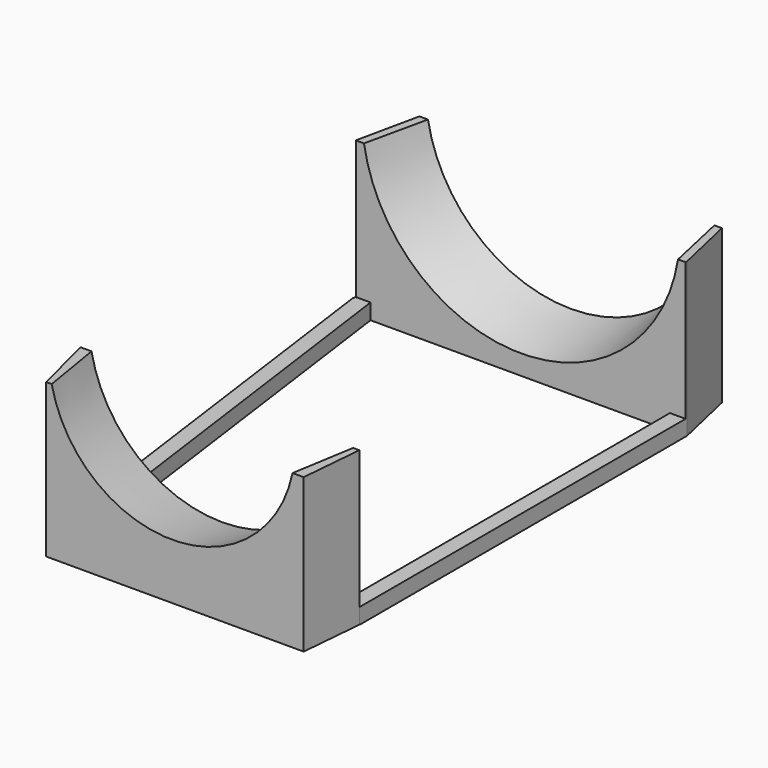
from build123d import *

# Parameters (mm, degrees)
BOX004_W                = 40
BOX004_H                = 20
BOX004_DEPTH            = 49
BOX004_PLACEMENT_ANGLE  = 257.9
BOX003_W                = 40
BOX003_H                = 20
BOX003_DEPTH            = 49
BOX003_PLACEMENT_ANGLE  = 282.8
BOX001_W                = 105.5
BOX001_H                = 20
BOX001_DEPTH            = 49
BOX007_W                = 5
BOX007_H                = 135
BOX007_DEPTH            = 5
BOX007_PLACEMENT_ANGLE  = 352.25
BOX008_W                = 5
BOX008_H                = 130
BOX008_DEPTH            = 5
CONE001_ROLL_ANGLE      = 89.4112
CONE001_PITCH_ANGLE     = 3.998897
CONE001_PLACEMENT_ANGLE = 0.893236
BOX002_W                = 40
BOX002_H                = 20
BOX002_DEPTH            = 49
BOX002_PLACEMENT_ANGLE  = 76
BOX005_W                = 40
BOX005_H                = 20
BOX005_DEPTH            = 49
BOX005_PLACEMENT_ANGLE  = 95
BOX_W                   = 89
BOX_H                   = 20
BOX_DEPTH               = 49


with BuildPart() as cube004:
    # Box004 → Box004 (new body)
    with BuildSketch(Plane.XY):
        with Locations((20, 10)):
            Rectangle(BOX004_W, BOX004_H)
    extrude(amount=BOX004_DEPTH)


with BuildPart() as cube004_1:
    # Box004 placement: moved
    add(cube004.part.moved(Location((-152.64395, 182.723164, 0))).rotate(Axis((-152.64395, 182.723164, 0), (0, 0, 1)), BOX004_PLACEMENT_ANGLE))


with BuildPart() as cone:
    # Cone → Cone (revolve)
    with BuildSketch(Plane(origin=(-86.5, 170, 57.03), x_dir=(1, 0, 0), z_dir=(0, 0, -1))):
        Polygon((0, 0), (46.38, 0), (50.75, 20.1), (0, 20.1), align=None)
    revolve(axis=Axis((-86.5, 170, 57.03), (0, -1, 0)))


with BuildPart() as cube003:
    # Box003 → Box003 (new body)
    with BuildSketch(Plane.XY):
        with Locations((20, 10)):
            Rectangle(BOX003_W, BOX003_H)
    extrude(amount=BOX003_DEPTH)


with BuildPart() as cube003_1:
    # Box003 placement: moved
    add(cube003.part.moved(Location((-38.594683, 170.816256, 0))).rotate(Axis((-38.594683, 170.816256, 0), (0, 0, 1)), BOX003_PLACEMENT_ANGLE))


with BuildPart() as cut003:
    # Box001 → Box001 (new body)
    with BuildSketch(Plane(origin=(-139.5, 150, 0), x_dir=(1, 0, 0), z_dir=(0, 0, 1))):
        with Locations((52.75, 10)):
            Rectangle(BOX001_W, BOX001_H)
    extrude(amount=BOX001_DEPTH)

    # Cut003: cut Cube003
    add(cube003_1.part, mode=Mode.SUBTRACT)


with BuildPart() as cut005:
    # Box007 → Box007 (new body)
    with BuildSketch(Plane.XY):
        with Locations((2.5, 67.5)):
            Rectangle(BOX007_W, BOX007_H)
    extrude(amount=BOX007_DEPTH)


with BuildPart() as cut005_1:
    # Box007 placement: moved
    add(cut005.part.moved(Location((-121.333055, 16.130182, 0))).rotate(Axis((-121.333055, 16.130182, 0), (0, 0, -1)), BOX007_PLACEMENT_ANGLE))

    # Fusion: union Cut003
    add(cut003.part)

    # Cut004: cut Cone
    add(cone.part, mode=Mode.SUBTRACT)

    # Cut005: cut Cube004
    add(cube004_1.part, mode=Mode.SUBTRACT)


with BuildPart() as cube008:
    # Box008 → Box008 (new body)
    with BuildSketch(Plane(origin=(-39, 20, 0), x_dir=(1, 0, 0), z_dir=(0, 0, 1))):
        with Locations((2.5, 65)):
            Rectangle(BOX008_W, BOX008_H)
    extrude(amount=BOX008_DEPTH)


with BuildPart() as cone002:
    # Cone002 → Cone002 (revolve)
    with BuildSketch(Plane(origin=(-77.8, 20.1, 57.03), x_dir=(1, 0, 0), z_dir=(0, 0, -1))):
        Polygon((0, 0), (42.5, 0), (39.25, 20.1), (0, 20.1), align=None)
    revolve(axis=Axis((-77.8, 20.1, 57.03), (0, -1, 0)))


with BuildPart() as cone001:
    # Cone001 → Cone001 (revolve)
    with BuildSketch(Plane.XZ):
        Polygon((0, 0), (41.5, 0), (39.25, 25), (0, 25), align=None)
    revolve(axis=Axis((0, 0, 0), (0, 0, 1)))


with BuildPart() as cone001_1:
    # Cone001 roll: moved
    add(cone001.part.rotate(Axis((0, 0, 0), (1, 0, 0)), CONE001_ROLL_ANGLE))


with BuildPart() as cone001_2:
    # Cone001 pitch: moved
    add(cone001_1.part.rotate(Axis((0, 0, 0), (0, 1, 0)), CONE001_PITCH_ANGLE))


with BuildPart() as cone001_3:
    # Cone001 placement: moved
    add(cone001_2.part.moved(Location((-77.76807, 22.976255, 59.052418))).rotate(Axis((-77.76807, 22.976255, 59.052418), (0, 0, 1)), CONE001_PLACEMENT_ANGLE))


with BuildPart() as cube002:
    # Box002 → Box002 (new body)
    with BuildSketch(Plane.XY):
        with Locations((20, 10)):
            Rectangle(BOX002_W, BOX002_H)
    extrude(amount=BOX002_DEPTH)


with BuildPart() as cube002_1:
    # Box002 placement: moved
    add(cube002.part.moved(Location((-143.09, 17.91, 0))).rotate(Axis((-143.09, 17.91, 0), (0, 0, -1)), BOX002_PLACEMENT_ANGLE))


with BuildPart() as cube005:
    # Box005 → Box005 (new body)
    with BuildSketch(Plane.XY):
        with Locations((20, 10)):
            Rectangle(BOX005_W, BOX005_H)
    extrude(amount=BOX005_DEPTH)


with BuildPart() as cube005_1:
    # Box005 placement: moved
    add(cube005.part.moved(Location((-33.959196, 21.508677, 0))).rotate(Axis((-33.959196, 21.508677, 0), (0, 0, -1)), BOX005_PLACEMENT_ANGLE))


with BuildPart() as fusion001:
    # Box → Box (new body)
    with BuildSketch(Plane(origin=(-123, 0, 0), x_dir=(1, 0, 0), z_dir=(0, 0, 1))):
        with Locations((44.5, 10)):
            Rectangle(BOX_W, BOX_H)
    extrude(amount=BOX_DEPTH)

    # Cut: cut Cube005
    add(cube005_1.part, mode=Mode.SUBTRACT)

    # Cut001: cut Cube002
    add(cube002_1.part, mode=Mode.SUBTRACT)

    # Cut002: cut Cone001
    add(cone001_3.part, mode=Mode.SUBTRACT)

    # Cut006: cut Cone002
    add(cone002.part, mode=Mode.SUBTRACT)

    # Fusion001: union Cut005, Cube008
    add(cut005_1.part)
    add(cube008.part)


solid = fusion001.part
